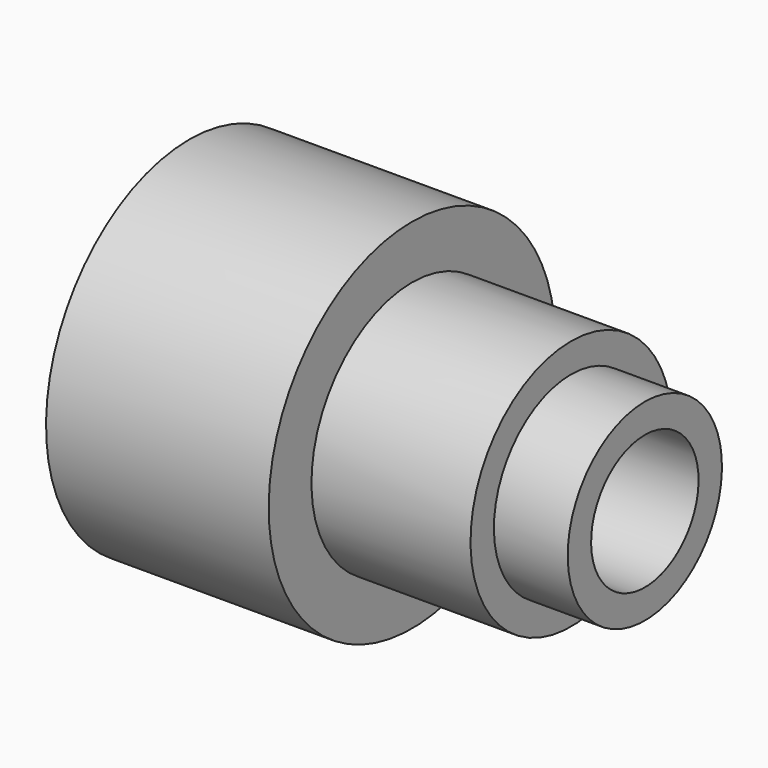
from build123d import *

# Parameters (mm, degrees)
F0_W   = 11.4487484097
F0_H   = 11.9691444561
F0_W_2 = 6.2447711825
F0_H_2 = 5.984572228
F0_W_3 = 15.0915309787


with BuildPart() as f1:
    # F0 (on Front) → F1 (revolve)
    with BuildSketch(Plane.XZ):
        Polygon((-6.8586543202, 36.6269983351), (-52.3934438825, 36.6269983351), (-52.3934438825, 13.7295043096), (-18.30740273, 13.7295043096), (-18.30740273, 25.6986487657), (-6.8586543202, 25.6986487657), align=None)
        Polygon((25.6661958992, 25.6986487657), (-6.8586543202, 25.6986487657), (-6.8586543202, 13.7295043096), (19.4214247167, 13.7295043096), (19.4214247167, 19.7140765376), (25.6661958992, 19.7140765376), align=None)
        with Locations((-12.5830285251, 19.7140765376)):
            Rectangle(F0_W, F0_H)
        with Locations((22.543810308, 16.7217904236)):
            Rectangle(F0_W_2, F0_H_2)
        with Locations((33.2119613886, 16.7217904236)):
            Rectangle(F0_W_3, F0_H_2)
    revolve(axis=Axis((4.5737884939, 0, 0), (1, 0, 0)))


solid = f1.part
